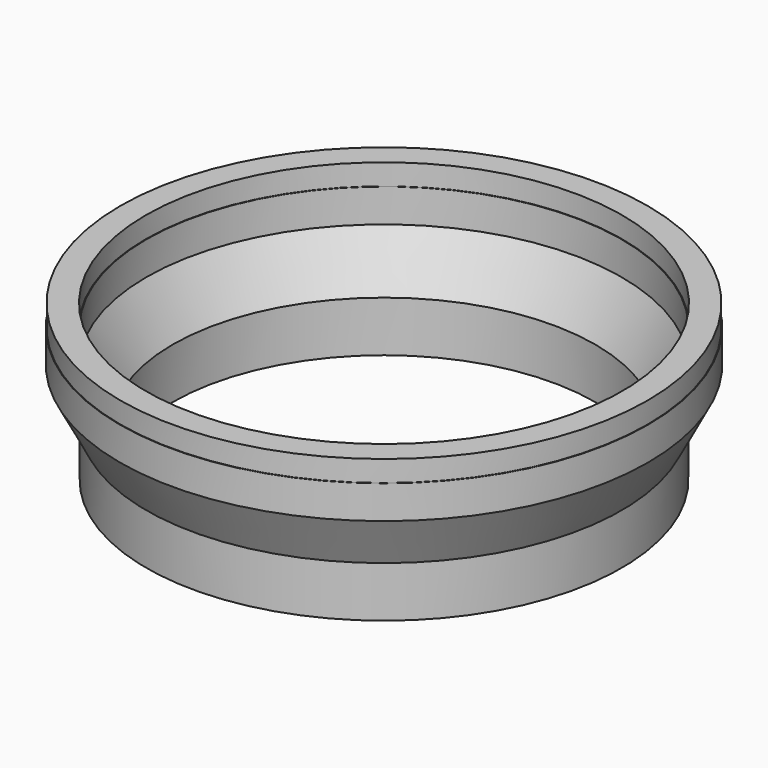
from build123d import *


with BuildPart() as f1:
    # F0 (on Front) → F1 (revolve)
    with BuildSketch(Plane.XZ):
        Polygon((-401, -254.865593), (-400, -254.865593), (-400, -158.865593), (-450, -62.865593), (-450, 0.134407), (-451, 0.134407), (-451, 40.134407), (-499, 40.134407), (-499, 0.134407), (-500, 0.134407), (-500, -62.865593), (-450, -158.865593), (-450, -254.865593), (-449, -254.865593), (-449, -214.865593), (-401, -214.865593), align=None)
    revolve(axis=Axis((0, 0, -0.829662), (0, 0, -1)))


solid = f1.part
